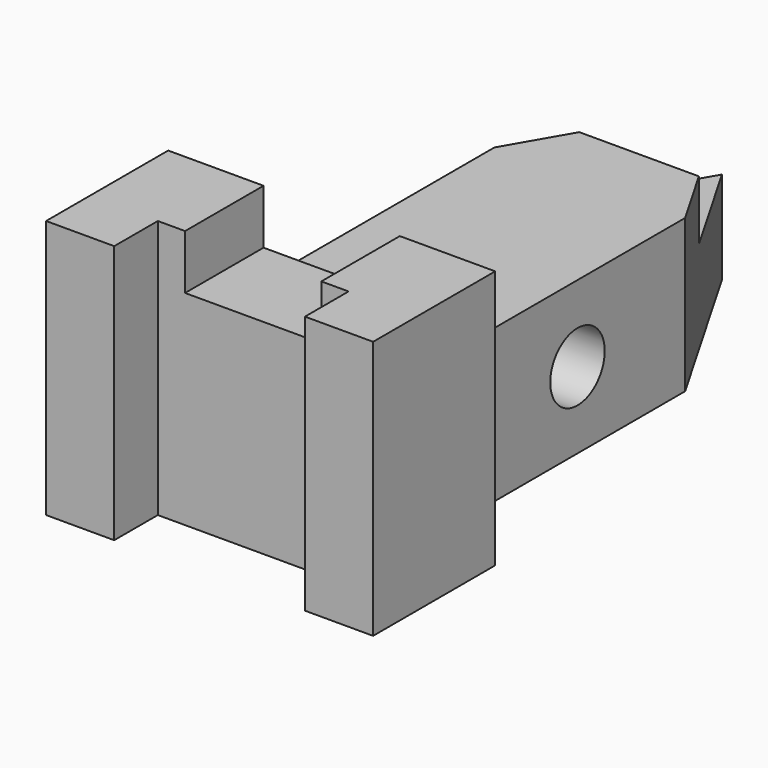
from build123d import *

# Parameters (mm, degrees)
PAD_DEPTH       = 76
POCKET_DEPTH    = 143.2
SKETCH002_W     = 40
SKETCH002_H     = 16
POCKET001_DEPTH = 44.801
POCKET002_DEPTH = 17.6
SKETCH004_R     = 10
POCKET003_DEPTH = 76.001


with BuildPart() as part:
    # Sketch → Pad (new body)
    with BuildSketch(Plane.XY):
        Polygon((-48, 44.8), (-48, 0), (-28, 0), (-28, 16), (28, 16), (28, 0), (48, 0), (48, 44.8), (28, 44.8), (28, 139.502577), (0, 188), (-28, 139.502577), (-28, 44.8), align=None)
    extrude(amount=PAD_DEPTH)

    # Sketch001 (on DatumPlane) → Pocket (cut)
    with BuildSketch(Plane.XZ.offset(-188)):
        Polygon((48, 76), (-48, 76), (-48, 0), (-28, 0), (-28, 44.8), (28, 44.8), (28, 0), (48, 0), align=None)
    extrude(amount=POCKET_DEPTH, mode=Mode.SUBTRACT)

    # Sketch002 (on Face7 of Pocket) → Pocket001 (cut, through all)
    with BuildSketch(Plane(origin=(0, 44.8, 0), x_dir=(-1, 0, 0), z_dir=(0, 1, 0))):
        with Locations((0, 68)):
            Rectangle(SKETCH002_W, SKETCH002_H)
    extrude(amount=-POCKET001_DEPTH, mode=Mode.SUBTRACT)

    # Sketch003 (on Face18 of Pocket001) → Pocket002 (cut)
    with BuildSketch(Plane.XY.offset(44.8)):
        Polygon((0, 188), (-17.551448, 157.6), (17.551448, 157.6), align=None)
    extrude(amount=-POCKET002_DEPTH, mode=Mode.SUBTRACT)

    # Sketch004 (on Face14 of Pocket002) → Pocket003 (cut, through all)
    with BuildSketch(Plane.YZ.offset(28)):
        with Locations((100, 22.4)):
            Circle(SKETCH004_R)
    extrude(amount=-POCKET003_DEPTH, mode=Mode.SUBTRACT)


solid = part.part
